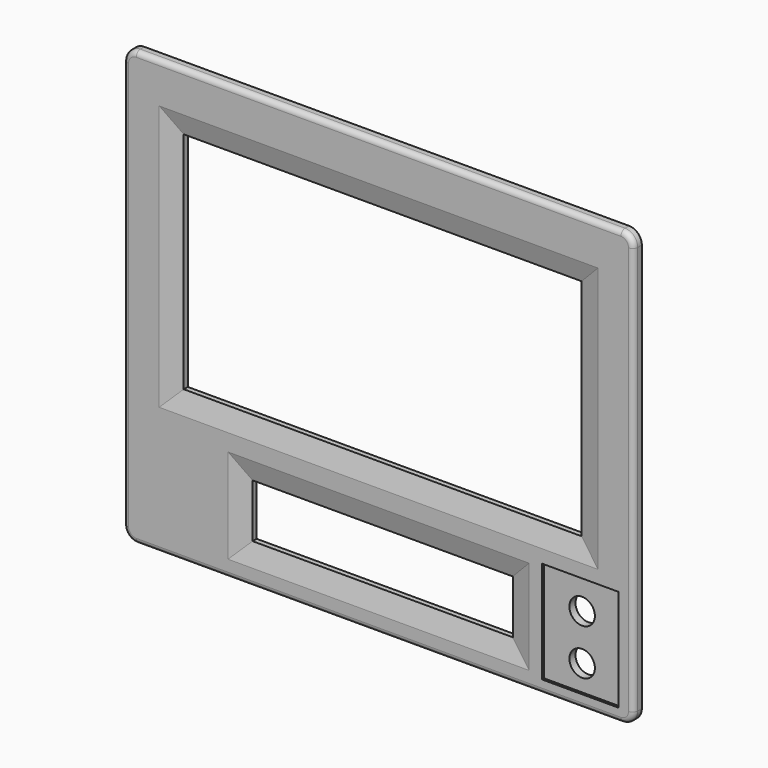
from build123d import *

# Parameters (mm, degrees)
F0_W     = 200
F0_H     = 170
F0_W_2   = 102
F0_H_2   = 21
F0_W_3   = 156
F0_H_3   = 88
F1_DEPTH = 4
F2_R     = 5
F3_R     = 5
F4_SIZE2 = 2
F4_SIZE  = 8
F5_R     = 2
F6_W     = 30
F6_H     = 40
F7_DEPTH = 1
F8_R     = 5
F9_DEPTH = 25


with BuildPart() as f1:
    # F0 (on Front) → F1 (new body)
    with BuildSketch(Plane.XZ):
        with Locations((0, 85)):
            Rectangle(F0_W, F0_H)
        with Locations((0, 25)):
            Rectangle(F0_W_2, F0_H_2, mode=Mode.SUBTRACT)
        with Locations((0, 102.15)):
            Rectangle(F0_W_3, F0_H_3, mode=Mode.SUBTRACT)
    extrude(amount=F1_DEPTH)

    # F2
    f2_edges = [f1.edges().sort_by_distance(p)[0] for p in [
        (-100, -2, 0),
    ]]
    fillet(f2_edges, radius=F2_R)

    # F3
    f3_edges = [f1.edges().sort_by_distance(p)[0] for p in [
        (100, -2, 0),
        (100, -2, 170),
        (-100, -2, 170),
    ]]
    fillet(f3_edges, radius=F3_R)

    # F4
    f4_edges = [f1.edges().sort_by_distance(p)[0] for p in [
        (-78, -4, 102.15),
        (78, -4, 102.15),
        (0, -4, 146.15),
        (0, -4, 58.15),
        (0, -4, 35.5),
        (0, -4, 14.5),
        (-51, -4, 25),
        (51, -4, 25),
    ]]
    f4_side = f1.faces().sort_by_distance((-97.375119, -4, 85))[0]
    chamfer(f4_edges, length=F4_SIZE, length2=F4_SIZE2, reference=f4_side)

    # F5
    f5_edges = [f1.edges().sort_by_distance(p)[0] for p in [
        (0, -4, 0),
    ]]
    fillet(f5_edges, radius=F5_R)

    # F6 (on face) → F7 (cut)
    with BuildSketch(Plane.XZ.offset(4)):
        with Locations((79, 25)):
            Rectangle(F6_W, F6_H)
    extrude(amount=-F7_DEPTH, mode=Mode.SUBTRACT)

    # F8 (on face) → F9 (cut)
    with BuildSketch(Plane.XZ.offset(3)):
        with Locations((79, 15)):
            Circle(F8_R)
        with Locations((79, 33)):
            Circle(F8_R)
    extrude(amount=-F9_DEPTH, mode=Mode.SUBTRACT)


solid = f1.part
